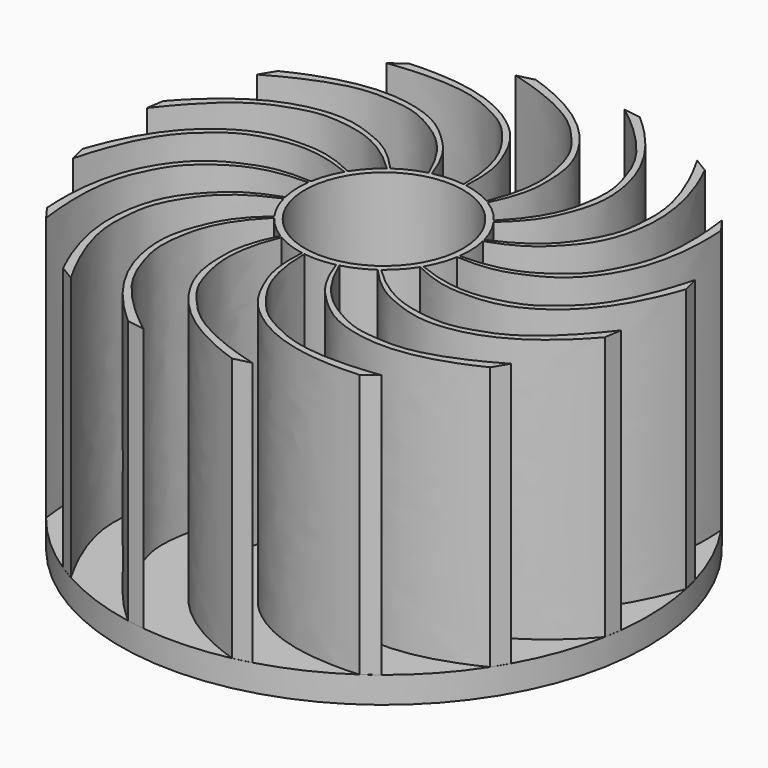
from build123d import *

# Parameters (mm, degrees)
SKETCH_R           = 20
PAD_DEPTH          = 2
PAD001_DEPTH       = 20
POLARPATTERN_COUNT = 16
SKETCH005_R        = 6.5
PAD002_DEPTH       = 20
SKETCH006_R        = 6
POCKET_DEPTH       = 19.001


with BuildPart() as part:
    # Sketch → Pad (new body)
    with BuildSketch(Plane.XY):
        Circle(SKETCH_R)
    extrude(amount=PAD_DEPTH)

    # Sketch001 (on DatumPlane) → Pad001 (join)
    with BuildSketch(Plane.XY.offset(2)):
        with BuildLine():
            add(Edge.make_bspline(
                [(-0.072924, 0.442616), (-1.369541, 8.074705), (-6.177801, 11.788516), (-8.623089, 12.220037), (-12.868873, 12.388904), (-17.446622, 9.778312)],
                knots=[0.006233, 0.006233, 0.006233, 0.006233, 0.333333, 0.666667, 1, 1, 1, 1], degree=3))
            Line((-17.446622, 9.778312), (-16.766604, 10.903256))
            add(Edge.make_bspline(
                [(-0.072924, 0.442616), (-1.245417, 7.432354), (-3.794577, 10.402662), (-6.77762, 12.750761), (-12.47083, 13.028184), (-16.766604, 10.903256)],
                knots=[0.006781, 0.006781, 0.006781, 0.006781, 0.333333, 0.666667, 1, 1, 1, 1], degree=3))
        make_face()
    pad001 = extrude(amount=PAD001_DEPTH)

    # PolarPattern: Pad001 ×16 about axis
    polarpattern_axis = Axis((0, 0, 2), (0, 0, 1))
    for i in range(1, POLARPATTERN_COUNT):
        add(pad001.rotate(polarpattern_axis, i * 360 / POLARPATTERN_COUNT))

    # Sketch005 (on DatumPlane) → Pad002 (join)
    with BuildSketch(Plane.XY.offset(2)):
        Circle(SKETCH005_R)
    extrude(amount=PAD002_DEPTH)

    # Sketch006 (on DatumPlane) → Pocket (cut, through all)
    with BuildSketch(Plane.XY.offset(3)):
        Circle(SKETCH006_R)
    extrude(amount=POCKET_DEPTH, mode=Mode.SUBTRACT)


solid = part.part
